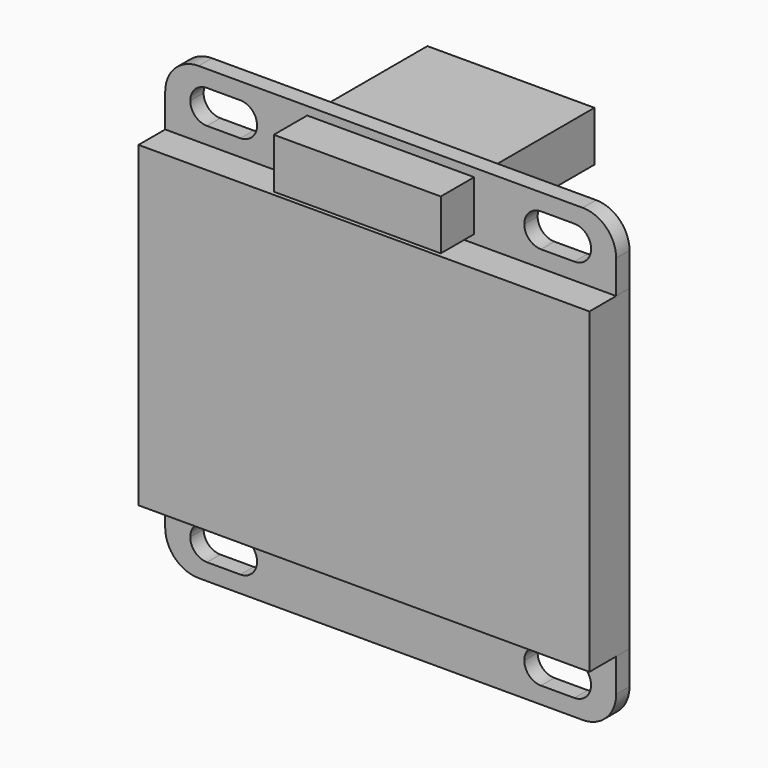
from build123d import *

# Parameters (mm, degrees)
F0_W          = 10
F0_H          = 3
F0_W_2        = 27
F0_H_2        = 19
F1_DEPTH      = 1
F2_DEPTH      = 3
F3_DEPTH      = 3.5
F3_DEPTH_BACK = 8


with BuildPart() as f1:
    # F0 (on Front) → F1 (new body)
    with BuildSketch(Plane.XZ):
        with BuildLine():
            Line((-13.5, 9.5), (13.5, 9.5))
            Line((13.5, 9.5), (13.5, 11.5))
            ThreePointArc((13.5, 11.5), (12.914214, 12.914214), (11.5, 13.5))
            Line((11.5, 13.5), (-11.5, 13.5))
            ThreePointArc((-11.5, 13.5), (-12.914214, 12.914214), (-13.5, 11.5))
            Line((-13.5, 11.5), (-13.5, 9.5))
        make_face()
        with BuildLine():
            ThreePointArc((-8, 11.5), (-8.292893, 10.792893), (-9, 10.5))
            Line((-9, 10.5), (-11, 10.5))
            ThreePointArc((-11, 10.5), (-11.707107, 10.792893), (-12, 11.5))
            ThreePointArc((-12, 11.5), (-11.707107, 12.207107), (-11, 12.5))
            Line((-11, 12.5), (-9, 12.5))
            ThreePointArc((-9, 12.5), (-8.292893, 12.207107), (-8, 11.5))
        make_face(mode=Mode.SUBTRACT)
        with Locations((0, 11.5)):
            Rectangle(F0_W, F0_H, mode=Mode.SUBTRACT)
        with BuildLine():
            ThreePointArc((9, 10.5), (8.292893, 10.792893), (8, 11.5))
            ThreePointArc((8, 11.5), (8.292893, 12.207107), (9, 12.5))
            Line((9, 12.5), (11, 12.5))
            ThreePointArc((11, 12.5), (11.707107, 12.207107), (12, 11.5))
            ThreePointArc((12, 11.5), (11.707107, 10.792893), (11, 10.5))
            Line((11, 10.5), (9, 10.5))
        make_face(mode=Mode.SUBTRACT)
        Rectangle(F0_W_2, F0_H_2)
        with BuildLine():
            Line((-11.5, -13.5), (11.5, -13.5))
            ThreePointArc((11.5, -13.5), (12.914214, -12.914214), (13.5, -11.5))
            Line((13.5, -11.5), (13.5, -9.5))
            Line((13.5, -9.5), (-13.5, -9.5))
            Line((-13.5, -9.5), (-13.5, -11.5))
            ThreePointArc((-13.5, -11.5), (-12.914214, -12.914214), (-11.5, -13.5))
        make_face()
        with BuildLine():
            ThreePointArc((-11, -12.5), (-11.707107, -12.207107), (-12, -11.5))
            ThreePointArc((-12, -11.5), (-11.707107, -10.792893), (-11, -10.5))
            Line((-11, -10.5), (-9, -10.5))
            ThreePointArc((-9, -10.5), (-8.292893, -10.792893), (-8, -11.5))
            ThreePointArc((-8, -11.5), (-8.292893, -12.207107), (-9, -12.5))
            Line((-9, -12.5), (-11, -12.5))
        make_face(mode=Mode.SUBTRACT)
        with BuildLine():
            ThreePointArc((12, -11.5), (11.707107, -12.207107), (11, -12.5))
            Line((11, -12.5), (9, -12.5))
            ThreePointArc((9, -12.5), (8.292893, -12.207107), (8, -11.5))
            ThreePointArc((8, -11.5), (8.292893, -10.792893), (9, -10.5))
            Line((9, -10.5), (11, -10.5))
            ThreePointArc((11, -10.5), (11.707107, -10.792893), (12, -11.5))
        make_face(mode=Mode.SUBTRACT)
    extrude(amount=F1_DEPTH)


with BuildPart() as f2:
    # F0 (on Front) → F2 (new body)
    with BuildSketch(Plane.XZ):
        Rectangle(F0_W_2, F0_H_2)
    extrude(amount=F2_DEPTH)


with BuildPart() as f3:
    # F0 (on Front) → F3 (new body, two sides)
    with BuildSketch(Plane.XZ) as f3_sk:
        with Locations((0, 11.5)):
            Rectangle(F0_W, F0_H)
    extrude(amount=F3_DEPTH)
    extrude(f3_sk.sketch, amount=-F3_DEPTH_BACK)


solid = Compound([f1.part, f2.part, f3.part])
